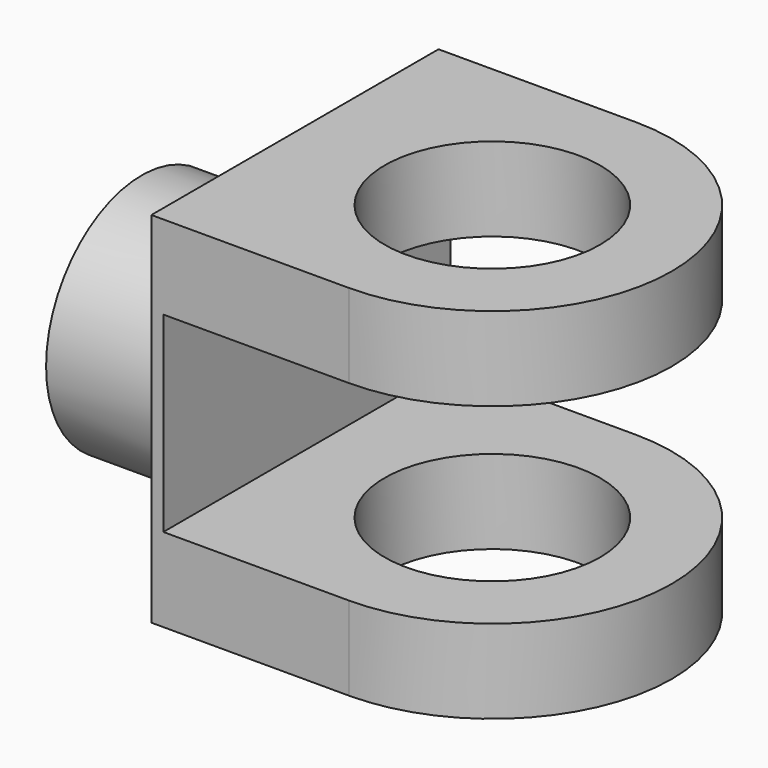
from build123d import *

# Parameters (mm, degrees)
F1_DEPTH = 300
F2_R     = 90
F2_W     = 367.9086971283
F2_H     = 300
F3_DEPTH = 501
F4_W     = 155
F4_H     = 160
F5_DEPTH = 501
F6_R     = 100
F7_DEPTH = 100


with BuildPart() as f1:
    # F0 (on Top) → F1 (new body)
    with BuildSketch(Plane.XY):
        with BuildLine():
            Line((-82.5, -150), (82.5, -150))
            ThreePointArc((82.5, -150), (232.5, 0), (82.5, 150))
            Line((82.5, 150), (-82.5, 150))
            ThreePointArc((-82.5, 150), (-232.5, 0), (-82.5, -150))
        make_face()
    extrude(amount=F1_DEPTH)

    # F2 (on face) → F3 (cut)
    with BuildSketch(Plane(origin=(0, 0, 0), x_dir=(1, 0, 0), z_dir=(0, 0, -1))):
        with Locations((82.5, 0)):
            Circle(F2_R)
        with Locations((-266.4543485641, 0)):
            Rectangle(F2_W, F2_H)
    extrude(amount=-F3_DEPTH, mode=Mode.SUBTRACT)

    # F4 (on face) → F5 (cut)
    with BuildSketch(Plane.XZ.offset(150)):
        with Locations((160, 150)):
            Rectangle(F4_W, F4_H)
        with Locations((5, 150)):
            Rectangle(F4_W, F4_H)
    extrude(amount=-F5_DEPTH, mode=Mode.SUBTRACT)

    # F6 (on face) → F7 (join)
    with BuildSketch(Plane(origin=(-82.5, 0, 0), x_dir=(0, -1, 0), z_dir=(-1, 0, 0))):
        with Locations((35, 150)):
            Circle(F6_R)
    extrude(amount=F7_DEPTH)


solid = f1.part
